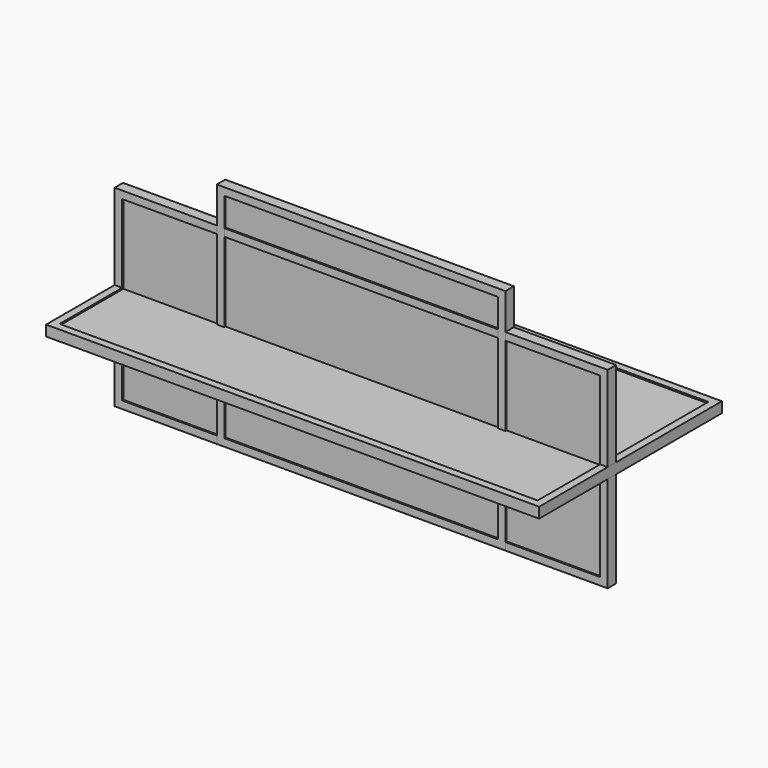
from build123d import *

# Parameters (mm, degrees)
F0_W      = 2082.8
F0_H      = 812.8
F0_W_2    = 2032
F0_H_2    = 762
F1_DEPTH  = 44.45
F0_W_3    = 2019.3
F0_H_3    = 749.3
F2_DEPTH  = 38.1
F3_START  = 38.1
F3_DEPTH  = 6.35
F4_W      = 1168.4
F4_H      = 914.4
F4_W_2    = 1155.7
F4_H_2    = 901.7
F5_DEPTH  = 38.1
F4_W_3    = 1219.2
F4_H_3    = 965.2
F6_DEPTH  = 44.45
F7_START  = 38.1
F7_DEPTH  = 6.35
F8_W      = 2032
F8_H      = 914.4
F8_W_2    = 2019.3
F8_H_2    = 901.7
F9_DEPTH  = 38.1
F10_START = 38.1
F8_W_3    = 2082.8
F8_H_3    = 965.2
F10_DEPTH = 6.35
F11_DEPTH = 38.1


with BuildPart() as f1:
    # F0 (on Front) → F1 (new body)
    with BuildSketch(Plane.XZ):
        Rectangle(F0_W, F0_H)
        Rectangle(F0_W_2, F0_H_2, mode=Mode.SUBTRACT)
    extrude(amount=F1_DEPTH)

    # F0 (on Front) → F3 (join)
    with BuildSketch(Plane.XZ.offset(F3_START)):
        Rectangle(F0_W_2, F0_H_2)
        Rectangle(F0_W_3, F0_H_3, mode=Mode.SUBTRACT)
    extrude(amount=F3_DEPTH)


with BuildPart() as f2:
    # F0 (on Front) → F2 (new body)
    with BuildSketch(Plane.XZ):
        Rectangle(F0_W_2, F0_H_2)
        Rectangle(F0_W_3, F0_H_3, mode=Mode.SUBTRACT)
        Rectangle(F0_W_3, F0_H_3)
    extrude(amount=F2_DEPTH)


with BuildPart() as f5:
    # F4 (on Front) → F5 (new body)
    with BuildSketch(Plane.XZ):
        with Locations((0, 76.2)):
            Rectangle(F4_W, F4_H)
        with Locations((0, 76.2)):
            Rectangle(F4_W_2, F4_H_2, mode=Mode.SUBTRACT)
        with Locations((0, 76.2)):
            Rectangle(F4_W_2, F4_H_2)
    extrude(amount=F5_DEPTH)


with BuildPart() as f6:
    # F4 (on Front) → F6 (new body)
    with BuildSketch(Plane.XZ):
        with Locations((0, 76.2)):
            Rectangle(F4_W_3, F4_H_3)
        with Locations((0, 76.2)):
            Rectangle(F4_W, F4_H, mode=Mode.SUBTRACT)
    extrude(amount=F6_DEPTH)

    # F4 (on Front) → F7 (join)
    with BuildSketch(Plane.XZ.offset(F7_START)):
        with Locations((0, 76.2)):
            Rectangle(F4_W_3, F4_H_3)
        with Locations((0, 76.2)):
            Rectangle(F4_W, F4_H, mode=Mode.SUBTRACT)
        with Locations((0, 76.2)):
            Rectangle(F4_W, F4_H)
        with Locations((0, 76.2)):
            Rectangle(F4_W_2, F4_H_2, mode=Mode.SUBTRACT)
    extrude(amount=F7_DEPTH)


with BuildPart() as f9:
    # F8 (on Top) → F9 (new body)
    with BuildSketch(Plane.XY):
        with Locations((0, 76.2)):
            Rectangle(F8_W, F8_H)
        with Locations((0, 76.2)):
            Rectangle(F8_W_2, F8_H_2, mode=Mode.SUBTRACT)
        with Locations((0, 76.2)):
            Rectangle(F8_W_2, F8_H_2)
    extrude(amount=F9_DEPTH)


with BuildPart() as f10:
    # F8 (on Top) → F10 (new body)
    with BuildSketch(Plane.XY.offset(F10_START)):
        with Locations((0, 76.2)):
            Rectangle(F8_W_3, F8_H_3)
        with Locations((0, 76.2)):
            Rectangle(F8_W, F8_H, mode=Mode.SUBTRACT)
        with Locations((0, 76.2)):
            Rectangle(F8_W, F8_H)
        with Locations((0, 76.2)):
            Rectangle(F8_W_2, F8_H_2, mode=Mode.SUBTRACT)
    extrude(amount=F10_DEPTH)

    # F8 (on Top) → F11 (join)
    with BuildSketch(Plane.XY):
        with Locations((0, 76.2)):
            Rectangle(F8_W_3, F8_H_3)
        with Locations((0, 76.2)):
            Rectangle(F8_W, F8_H, mode=Mode.SUBTRACT)
    extrude(amount=F11_DEPTH)


solid = Compound([f1.part, f2.part, f5.part, f6.part, f9.part, f10.part])
